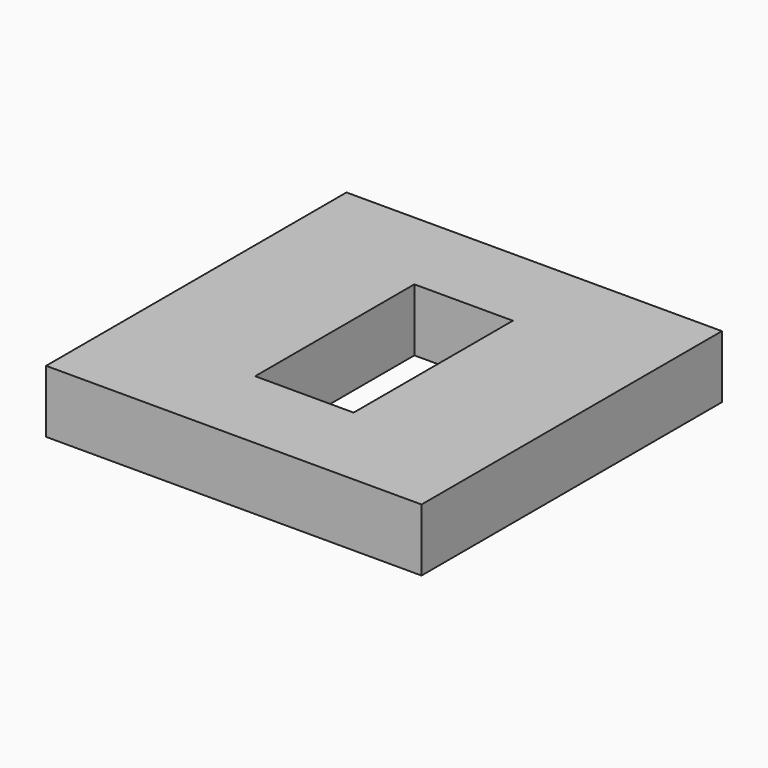
from build123d import *

# Parameters (mm, degrees)
F0_W     = 76.2
F0_H     = 76.2
F1_DEPTH = 12.7


with BuildPart() as f1:
    # F0 (on Top) → F1 (new body)
    with BuildSketch(Plane.XY):
        with Locations((38.1, 33.143902)):
            Rectangle(F0_W, F0_H)
        Polygon((28.1051, 33.143902), (28.1051, 53.336902), (38.1, 53.336902), (48.0949, 53.336902), (48.0949, 33.143902), (48.0949, 12.950902), (38.1, 12.950902), (28.1051, 12.950902), align=None, mode=Mode.SUBTRACT)
    extrude(amount=F1_DEPTH)


solid = f1.part
